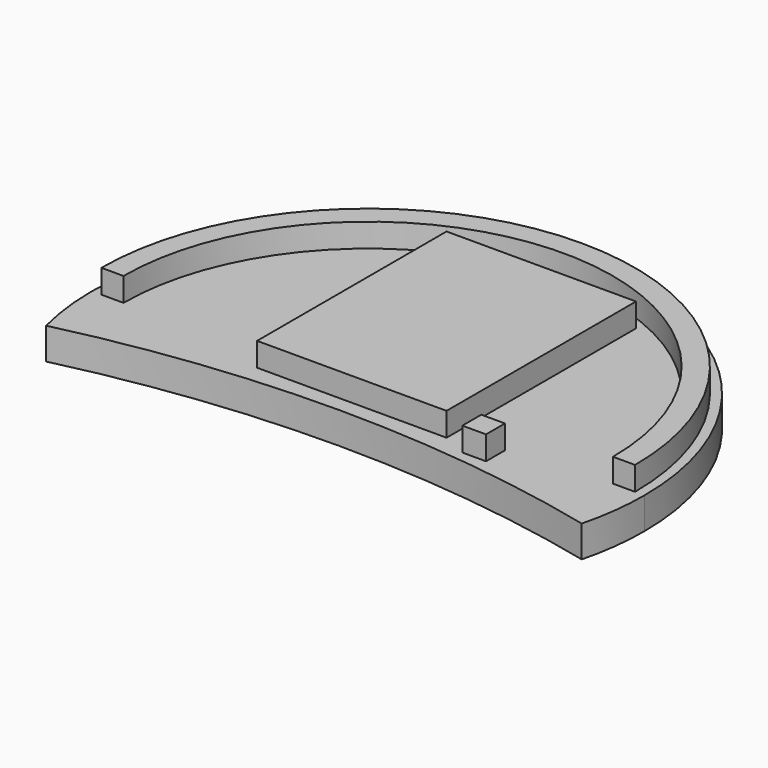
from build123d import *

# Parameters (mm, degrees)
F1_DEPTH = 2
F2_W     = 12
F2_H     = 15
F2_W_2   = 1.5
F2_H_2   = 1.5
F3_DEPTH = 1.5


with BuildPart() as f1:
    # F0 (on Top) → F1 (new body)
    with BuildSketch(Plane.XY):
        with BuildLine():
            ThreePointArc((16.96349, -4.3), (17.365355, -2.16667), (17.5, 0))
            ThreePointArc((17.5, 0), (-2.16667, 17.365355), (-16.96349, -4.3))
            ThreePointArc((-16.96349, -4.3), (0, -2.3), (16.96349, -4.3))
        make_face()
    extrude(amount=F1_DEPTH)

    # F2 (on face) → F3 (join)
    with BuildSketch(Plane.XY.offset(2)):
        with Locations((0, 6.2)):
            Rectangle(F2_W, F2_H)
        with BuildLine():
            Line((15.5, 0), (16.9, 0))
            ThreePointArc((16.9, 0), (0, 16.9), (-16.9, 0))
            Line((-16.9, 0), (-15.5, 0))
            ThreePointArc((-15.5, 0), (0, 15.5), (15.5, 0))
        make_face()
        with Locations((8.350346, -1.3)):
            Rectangle(F2_W_2, F2_H_2)
    extrude(amount=F3_DEPTH)


solid = f1.part
